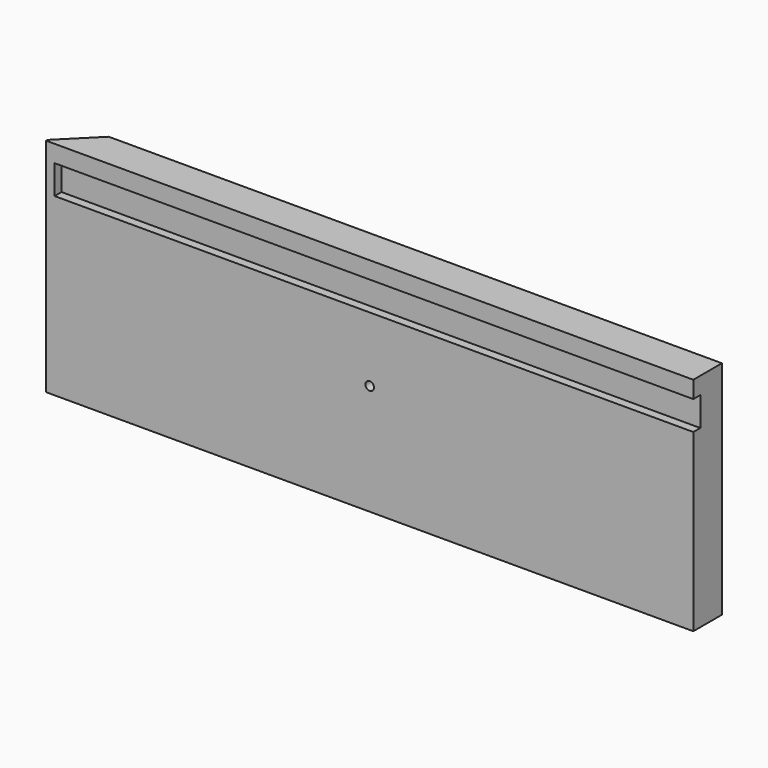
from build123d import *

# Parameters (mm, degrees)
F0_W     = 380
F0_H     = 130
F1_DEPTH = 21
F2_W     = 375
F2_H     = 17
F3_DEPTH = 5.1
F4_SIZE  = 20
F6_D     = 5


with BuildPart() as f1:
    # F0 (on Front) → F1 (new body)
    with BuildSketch(Plane.XZ):
        with Locations((190, 65)):
            Rectangle(F0_W, F0_H)
    extrude(amount=F1_DEPTH)

    # F2 (on face) → F3 (cut, symmetric)
    with BuildSketch(Plane.XZ.offset(21)):
        with Locations((192.5, 111.5)):
            Rectangle(F2_W, F2_H)
    extrude(amount=F3_DEPTH, both=True, mode=Mode.SUBTRACT)

    # F4
    f4_edges = [f1.edges().sort_by_distance(p)[0] for p in [
        (0, 0, 65),
    ]]
    chamfer(f4_edges, length=F4_SIZE)

    # F6 (through all)
    with Locations(Plane.XZ.offset(21)):
        with Locations((190, 65)):
            Hole(F6_D / 2)


solid = f1.part
